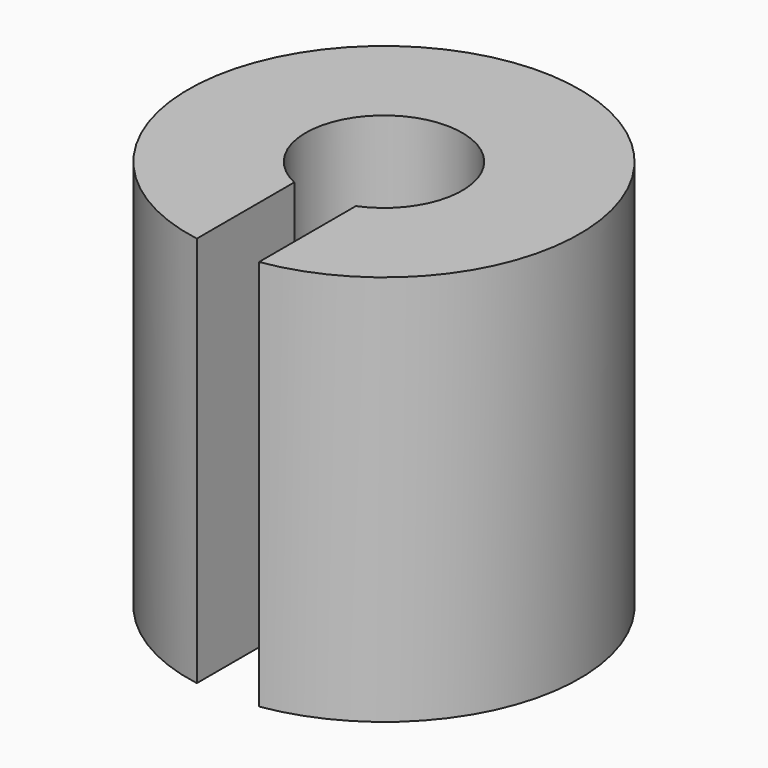
from build123d import *

# Parameters (mm, degrees)
F0_R     = 2.5
F0_R_2   = 1
F2_DEPTH = 5
F1_W     = 0.8
F1_H     = 3.439264
F3_DEPTH = 25.4


with BuildPart() as f2:
    # F0 (on Top) → F2 (new body)
    with BuildSketch(Plane.XY):
        Circle(F0_R)
        Circle(F0_R_2, mode=Mode.SUBTRACT)
    extrude(amount=F2_DEPTH)

    # F1 (on Top) → F3 (cut)
    with BuildSketch(Plane.XY):
        with Locations((-0.0198, -1.719632)):
            Rectangle(F1_W, F1_H)
    extrude(amount=F3_DEPTH, mode=Mode.SUBTRACT)


solid = f2.part
